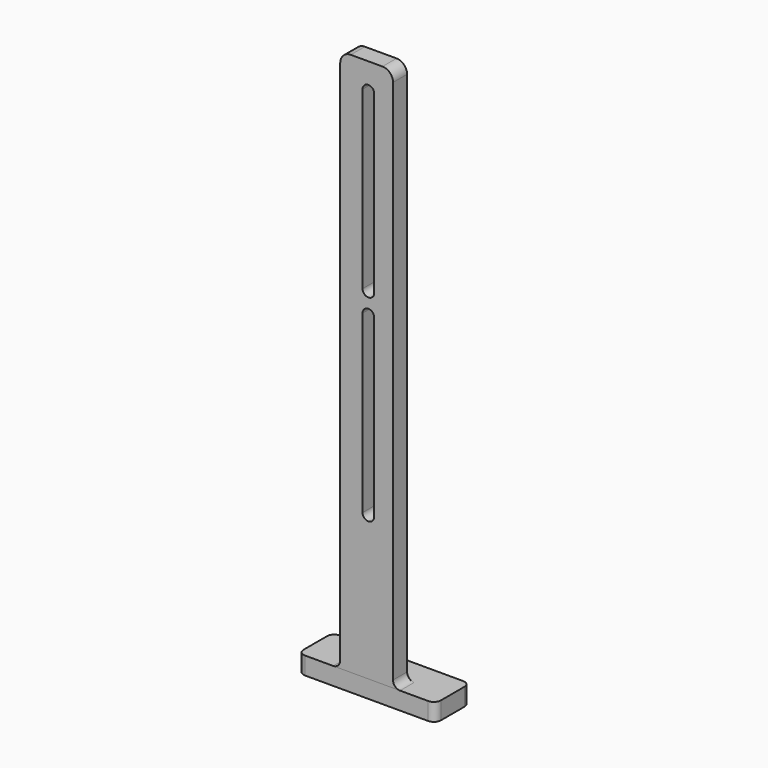
from build123d import *

# Parameters (mm, degrees)
PAD_DEPTH    = 5
SKETCH001_W  = 39
SKETCH001_H  = 12.348814
PAD001_DEPTH = 5
FILLET_R     = 2
FILLET001_R  = 2


with BuildPart() as part:
    # Sketch (on Face5 of Binder) → Pad (new body)
    with BuildSketch(Plane(origin=(8e-06, 448.000007, 1.5e-05), x_dir=(-1, 0, 0), z_dir=(0, 1, 0))):
        with BuildLine():
            ThreePointArc((-76.138322, 296.60498), (-78.259642, 295.726301), (-79.138322, 293.60498))
            Line((-79.138322, 140.123388), (-79.138322, 293.60498))
            ThreePointArc((-79.138322, 140.123388), (-78.259642, 138.002067), (-76.138322, 137.123388))
            Line((-67.138322, 137.123388), (-76.138322, 137.123388))
            ThreePointArc((-67.138322, 137.123388), (-65.017001, 138.002067), (-64.138322, 140.123388))
            Line((-64.138322, 293.60498), (-64.138322, 140.123388))
            ThreePointArc((-64.138322, 293.60498), (-65.017001, 295.726301), (-67.138322, 296.60498))
            Line((-76.138322, 296.60498), (-67.138322, 296.60498))
        make_face()
        with BuildLine():
            ThreePointArc((-70.488322, 289.068935), (-72.138322, 290.718935), (-73.788322, 289.068935))
            Line((-73.788322, 289.068935), (-73.788322, 239.181824))
            ThreePointArc((-73.788322, 239.181824), (-72.138322, 237.531824), (-70.488322, 239.181824))
            Line((-70.488322, 239.181824), (-70.488322, 289.068935))
        make_face(mode=Mode.SUBTRACT)
        with BuildLine():
            ThreePointArc((-70.488322, 233.068934), (-72.138322, 234.718934), (-73.788322, 233.068934))
            Line((-73.788322, 233.068934), (-73.788322, 183.181823))
            ThreePointArc((-73.788322, 183.181823), (-72.138322, 181.531823), (-70.488322, 183.181823))
            Line((-70.488322, 183.181823), (-70.488322, 233.068934))
        make_face(mode=Mode.SUBTRACT)
    extrude(amount=PAD_DEPTH)

    # Sketch001 (on Face4 of Pad) → Pad001 (join)
    with BuildSketch(Plane(origin=(0, -5e-06, 137.123388), x_dir=(1, 0, 0), z_dir=(0, 0, -1))):
        with Locations((71.638329, -454.174413)):
            Rectangle(SKETCH001_W, SKETCH001_H)
    extrude(amount=-PAD001_DEPTH)

    # Fillet
    fillet_edges = [part.edges().sort_by_distance(p)[0] for p in [
        (52.138329, 460.348815, 139.623403),
        (91.138329, 460.348815, 139.623403),
        (52.138329, 448.000002, 139.623403),
        (91.138329, 448.000002, 139.623403),
    ]]
    fillet(fillet_edges, radius=FILLET_R)

    # Fillet001
    fillet001_edges = [part.edges().sort_by_distance(p)[0] for p in [
        (79.13833, 450.500001, 142.123403),
        (64.13833, 450.500002, 142.123403),
    ]]
    fillet(fillet001_edges, radius=FILLET001_R)


solid = part.part
